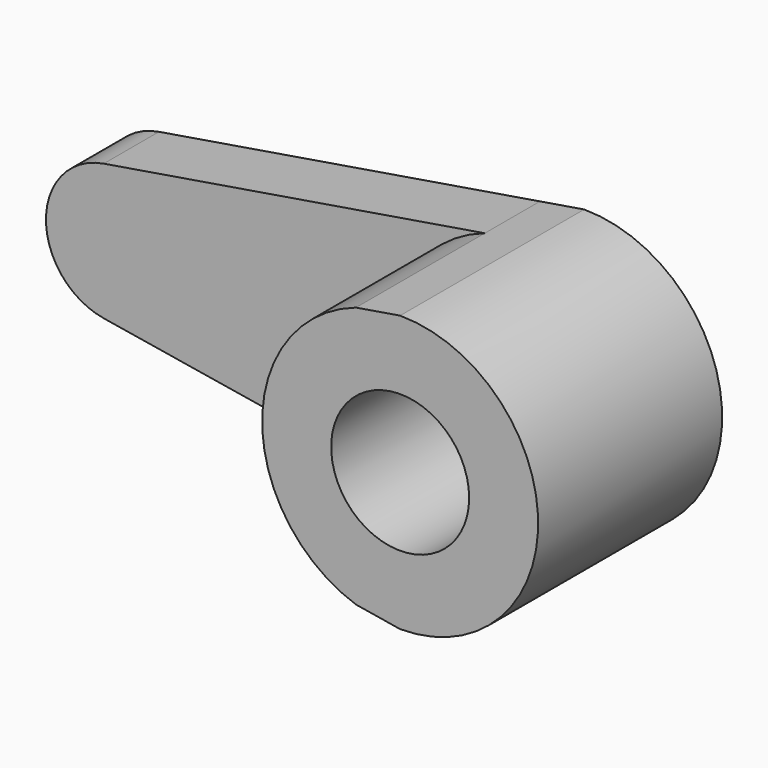
from build123d import *

# Parameters (mm, degrees)
F0_R     = 15
F1_DEPTH = 50
F2_DEPTH = 15


with BuildPart() as f1:
    # F0 (on Front) → F1 (new body)
    with BuildSketch(Plane.XZ):
        with BuildLine():
            ThreePointArc((0, -30), (21.2132034356, -21.2132034356), (30, 0))
            ThreePointArc((30, 0), (21.2132034356, 21.2132034356), (0, 30))
            Line((0, 30), (-9.6060024019, 28.4204981986))
            ThreePointArc((-9.6060024019, 28.4204981986), (-30, 0), (-9.6060024019, -28.4204981986))
            Line((-9.6060024019, -28.4204981986), (0, -30))
        make_face()
        Circle(F0_R, mode=Mode.SUBTRACT)
    extrude(amount=F1_DEPTH)

    # F0 (on Front) → F2 (join)
    with BuildSketch(Plane.XZ):
        with BuildLine():
            ThreePointArc((-9.6060024019, -28.4204981986), (-30, 0), (-9.6060024019, 28.4204981986))
            Line((-9.6060024019, 28.4204981986), (-92.4337484988, 14.8012454964))
            ThreePointArc((-92.4337484988, 14.8012454964), (-80.2919164477, 11.4347327796), (-75, 0))
            ThreePointArc((-75, 0), (-80.2919164477, -11.4347327796), (-92.4337484988, -14.8012454964))
            Line((-92.4337484988, -14.8012454964), (-9.6060024019, -28.4204981986))
        make_face()
        with BuildLine():
            ThreePointArc((-75, 0), (-80.2919164477, 11.4347327796), (-92.4337484988, 14.8012454964))
            ThreePointArc((-92.4337484988, 14.8012454964), (-105, 0), (-92.4337484988, -14.8012454964))
            ThreePointArc((-92.4337484988, -14.8012454964), (-80.2919164477, -11.4347327796), (-75, 0))
        make_face()
    extrude(amount=F2_DEPTH)


solid = f1.part
